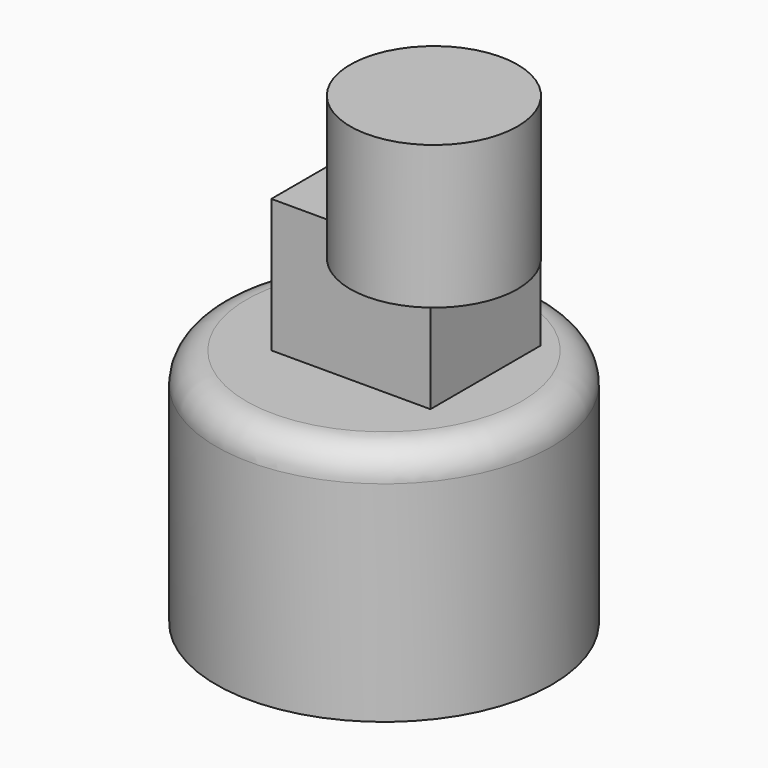
from build123d import *

# Parameters (mm, degrees)
F0_R      = 141.361555
F1_DEPTH  = 201.93
F3_W      = 134.041112
F3_H      = 116.143879
F4_DEPTH  = 112.395
F5_R      = 25.4
F7_R      = 23.556914
F8_DEPTH  = 25.4
F9_R      = 70.475259
F10_DEPTH = 120.65


with BuildPart() as f1:
    # F0 (on Top) → F1 (new body)
    with BuildSketch(Plane.XY):
        Circle(F0_R)
    extrude(amount=F1_DEPTH)

    # F3 (on face) → F4 (join)
    with BuildSketch(Plane.XY.offset(201.93)):
        with Locations((9.092184, 11.829982)):
            Rectangle(F3_W, F3_H)
    extrude(amount=F4_DEPTH)

    # F5
    f5_edges = [f1.edges().sort_by_distance(p)[0] for p in [
        (-141.361555, 0, 201.93),
    ]]
    fillet(f5_edges, radius=F5_R)

    # F7 (on face) → F8 (join)
    with BuildSketch(Plane.XY.offset(314.325)):
        with Locations((29.327184, 28.160922)):
            Circle(F7_R)
    extrude(amount=F8_DEPTH)

    # F9 (on face) → F10 (join)
    with BuildSketch(Plane.XY.offset(314.325)):
        with Locations((78.396186, -45.443591)):
            Circle(F9_R)
    extrude(amount=F10_DEPTH)


solid = f1.part
